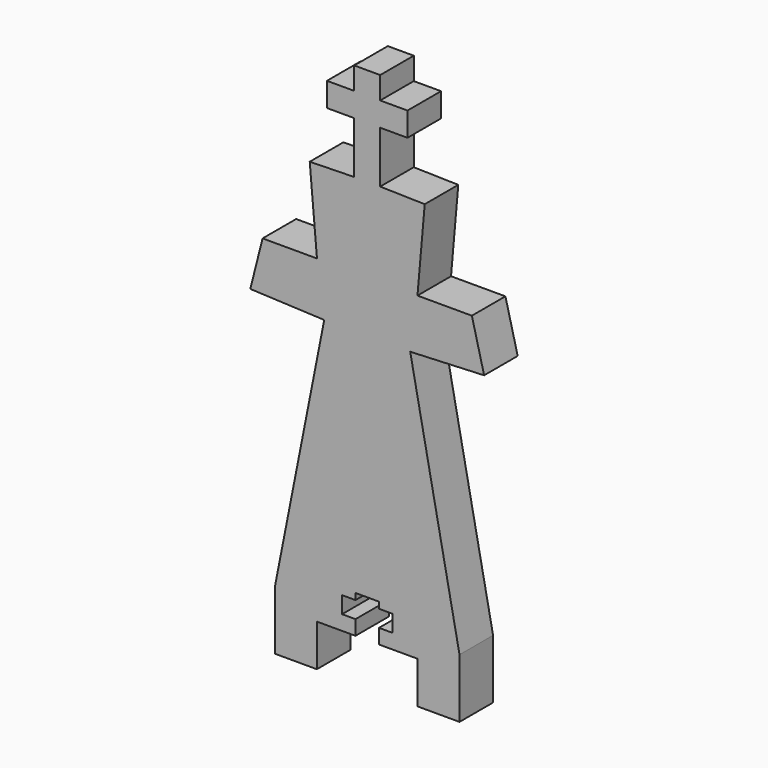
from build123d import *

# Parameters (mm, degrees)
F1_DEPTH = 6.35
F3_DEPTH = 25.4


with BuildPart() as f1:
    # F0 (on Front) → F1 (new body)
    with BuildSketch(Plane.XZ):
        Polygon((-13.97, 2.610046), (-13.97, 0), (-13.97, -6.35), (-7.62, -6.35), (-7.62, 0), (7.62, 0), (7.62, -6.35), (13.97, -6.35), (13.97, 0), (13.97, 2.610046), (6.508922, 40.554207), (17.695848, 41.045509), (15.840202, 48.389409), (7.60585, 48.389409), (8.702777, 60.925726), (1.964507, 61.08243), (1.964507, 68.926394), (6.096239, 68.926394), (6.096239, 72.558127), (1.964507, 72.558127), (1.964507, 75.946), (-1.964507, 75.946), (-1.964507, 72.558127), (-6.096239, 72.558127), (-6.096239, 68.926394), (-1.964507, 68.926394), (-1.964507, 61.08243), (-8.702777, 60.925726), (-7.60585, 48.389409), (-15.840202, 48.389409), (-17.695848, 41.045509), (-6.508922, 40.554207), align=None)
    extrude(amount=F1_DEPTH)

    # F2 (on face) → F3 (cut)
    with BuildSketch(Plane.XZ.offset(6.35)):
        Polygon((1.778, 5.715), (-1.778, 5.715), (-1.778, 4.7625), (-3.81, 4.7625), (-3.81, 2.2225), (-1.778, 2.2225), (-1.778, 0), (1.778, 0), (1.778, 2.2225), (3.81, 2.2225), (3.81, 4.7625), (1.778, 4.7625), align=None)
    extrude(amount=-F3_DEPTH, mode=Mode.SUBTRACT)


solid = f1.part
